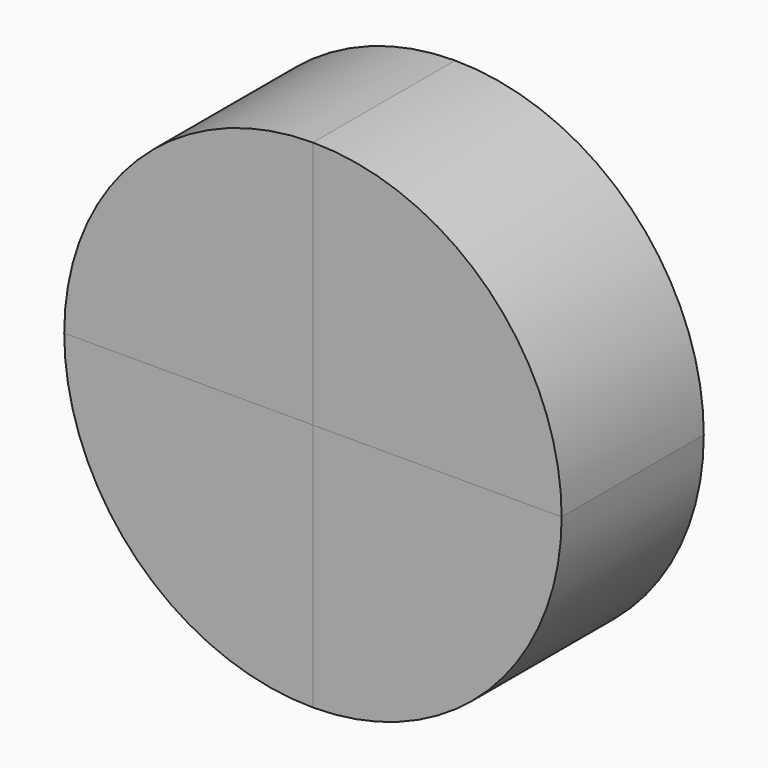
from build123d import *

# Parameters (mm, degrees)
F1_DEPTH = 25
F2_COUNT = 4


with BuildPart() as f1:
    # F0 (on Front) → F1 (new body)
    with BuildSketch(Plane.XZ):
        with BuildLine():
            Line((0, 0), (35, 0))
            ThreePointArc((35, 0), (24.748737, 24.748737), (0, 35))
            Line((0, 35), (0, 0))
        make_face()
    extrude(amount=F1_DEPTH)


with BuildPart() as f2_1:
    # F2: instance of F1
    add(f1.part.rotate(Axis((0, -12.5, 0), (0, -1, 0)), 1 * 360 / F2_COUNT))


with BuildPart() as f2_2:
    # F2: instance of F1
    add(f1.part.rotate(Axis((0, -12.5, 0), (0, -1, 0)), 2 * 360 / F2_COUNT))


with BuildPart() as f2_3:
    # F2: instance of F1
    add(f1.part.rotate(Axis((0, -12.5, 0), (0, -1, 0)), 3 * 360 / F2_COUNT))


solid = Compound([f1.part, f2_1.part, f2_2.part, f2_3.part])
